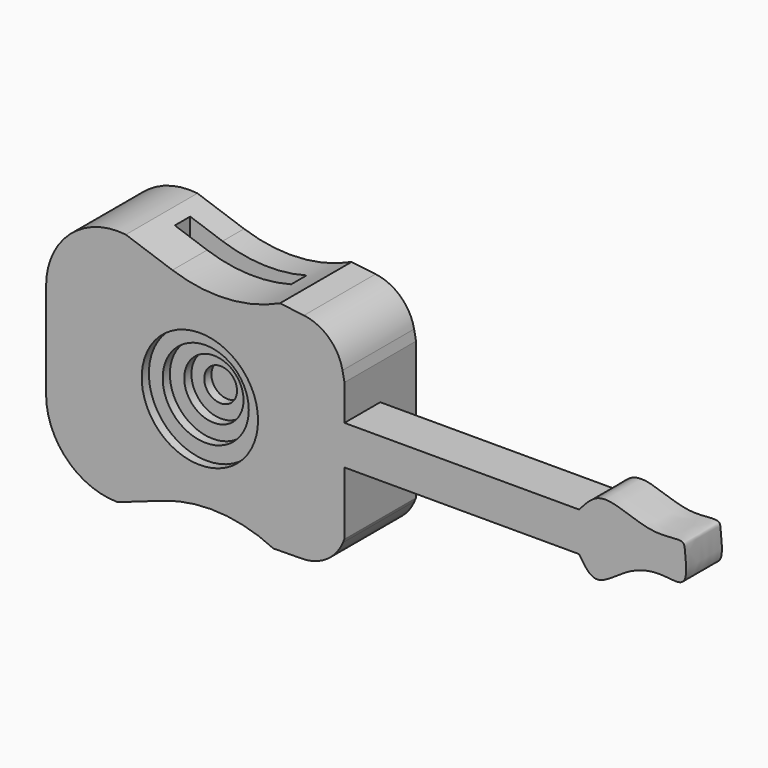
from build123d import *

# Parameters (mm, degrees)
F1_DEPTH  = 50
F2_W      = 203.4041953146
F2_H      = 25
F3_DEPTH  = 40.4
F4_W      = 65
F4_H      = 10.726257709
F5_DEPTH  = 112
F6_R      = 32.5
F10_DEPTH = 5
F7_R      = 24.0521800703
F11_DEPTH = 10
F8_R      = 16.5581027977
F12_DEPTH = 15
F9_R      = 9.1629901252
F13_DEPTH = 20


with BuildPart() as f1:
    # F0 (on Front) → F1 (new body)
    with BuildSketch(Plane.XZ):
        with BuildLine():
            ThreePointArc((-134.0119313807, 61.0089755049), (-165.1883451271, 51.1177616141), (-178.5609062061, 21.2684819493))
            Line((-178.5609062061, 21.2684819493), (-178.5609062061, -32.0488810539))
            ThreePointArc((-178.5609062061, -32.0488810539), (-166.8451774536, -60.3331523014), (-138.5609062061, -72.0488810539))
            Line((-138.5609062061, -72.0488810539), (-113.0485865589, -63.0630763264))
            ThreePointArc((-113.0485865589, -63.0630763264), (-81.9634644084, -58.6466302098), (-51.5727523129, -66.5329749737))
            Line((-51.5727523129, -66.5329749737), (-35.4851112417, -66.3445317899))
            ThreePointArc((-35.4851112417, -66.3445317899), (-21.8309325682, -62.0942893591), (-12.7402371148, -51.0552489959))
            Line((-12.7402371148, -51.0552489959), (-11.8702905939, -48.9910244951))
            Line((-11.8702905939, -48.9910244951), (-11.8702905939, -13.7581349794))
            Line((-11.8702905939, -13.7581349794), (119.2091181874, -13.7581349794))
            add(Edge.make_bspline(
                [(119.2091181874, -13.7581349794), (122.049579577, -18.1828724291), (126.9350497775, -25.7932286322), (134.897767087, -21.1367485227), (138.4778455506, -18.7581349794)],
                knots=[0, 0, 0, 0, 0.0888325666, 0.1527881557, 0.1527881557, 0.1527881557, 0.1527881557], degree=3))
            add(Edge.make_bspline(
                [(138.4778455506, -18.7581349794), (140.9635811099, -17.1066057387), (149.9885259001, -10.6671537336), (164.3541149929, -7.5495911445), (180.7806686666, -12.0167717119), (178.260361881, 6.1916754372), (178.1730852516, 12.9052011873), (161.1255533687, 8.6484488517), (141.275590488, 17.5855797892), (128.2091005086, 18.6954367611), (122.0750695464, 11.3836393112), (119.2091181874, 8.1482473761)],
                knots=[0.1527881557, 0.1527881557, 0.1527881557, 0.1527881557, 0.1971940768, 0.3066433151, 0.3909591542, 0.4835712777, 0.5379843908, 0.6305063068, 0.7469598916, 0.8309690766, 0.9186430517, 0.9186430517, 0.9186430517, 0.9186430517], degree=3))
            Line((119.2091181874, 8.1482473761), (-11.8702905939, 8.1482473761))
            Line((-11.8702905939, 8.1482473761), (-11.8702905939, 28.0351947253))
            Line((-11.8702905939, 28.0351947253), (-12.9600273318, 33.6130802276))
            ThreePointArc((-12.9600273318, 33.6130802276), (-20.4771037214, 47.1321323166), (-34.5096521952, 53.6404954103))
            Line((-34.5096521952, 53.6404954103), (-47.9076925976, 55.252573441))
            ThreePointArc((-47.9076925976, 55.252573441), (-77.6245369757, 47.7839751092), (-107.9692934799, 52.0344519687))
            Line((-107.9692934799, 52.0344519687), (-134.0119313807, 61.0089755049))
        make_face()
    extrude(amount=F1_DEPTH)

    # F2 (on face) → F3 (cut, symmetric)
    with BuildSketch(Plane.XY.offset(8.1482473761)):
        with Locations((89.8318070634, -12.5)):
            Rectangle(F2_W, F2_H)
    extrude(amount=F3_DEPTH, both=True, mode=Mode.SUBTRACT)

    # F4 (on Top) → F5 (cut)
    with BuildSketch(Plane.XY):
        with Locations((-93.5502903908, -20.3631288545)):
            Rectangle(F4_W, F4_H)
    extrude(amount=F5_DEPTH, mode=Mode.SUBTRACT)

    # F6 (on face) → F10 (cut)
    with BuildSketch(Plane.XZ.offset(50)):
        with Locations((-92.6430001855, -6.3502900302)):
            Circle(F6_R)
    extrude(amount=-F10_DEPTH, mode=Mode.SUBTRACT)

    # F7 (on face) → F11 (cut)
    with BuildSketch(Plane.XZ.offset(50)):
        with Locations((-93.3686941862, -6.2175197527)):
            Circle(F7_R)
    extrude(amount=-F11_DEPTH, mode=Mode.SUBTRACT)

    # F8 (on face) → F12 (cut)
    with BuildSketch(Plane.XZ.offset(50)):
        with Locations((-92.8074046969, -5.6562279351)):
            Circle(F8_R)
    extrude(amount=-F12_DEPTH, mode=Mode.SUBTRACT)

    # F9 (on face) → F13 (cut)
    with BuildSketch(Plane.XZ.offset(50)):
        with Locations((-93.0399000645, -5.5565037765)):
            Circle(F9_R)
    extrude(amount=-F13_DEPTH, mode=Mode.SUBTRACT)


solid = f1.part
